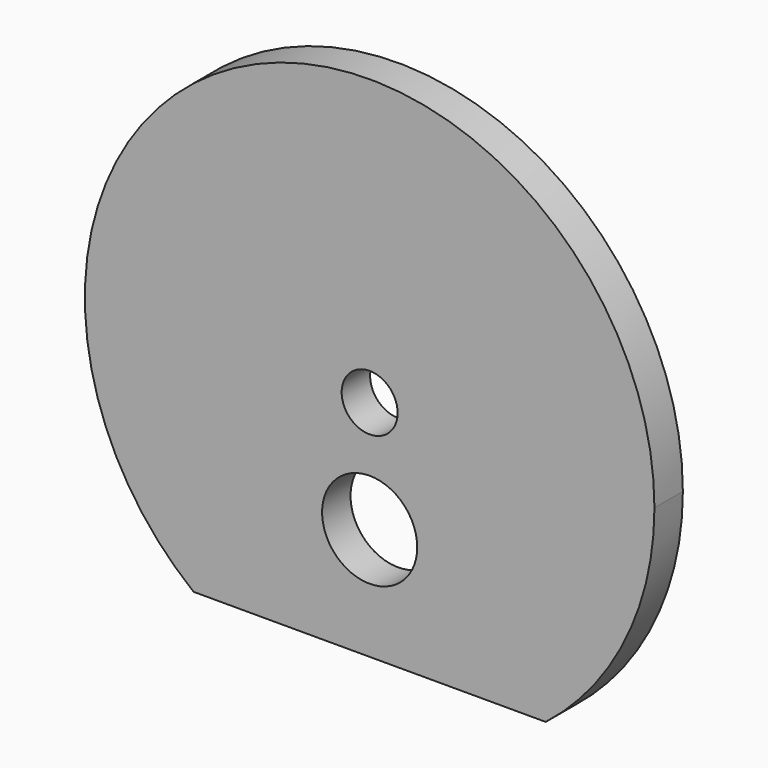
from build123d import *

# Parameters (mm, degrees)
F0_R     = 8.5
F0_R_2   = 5
F1_DEPTH = 6.35


with BuildPart() as f1:
    # F0 (on Front) → F1 (new body)
    with BuildSketch(Plane.XZ):
        with BuildLine():
            Line((-31.4690486828, -40), (0, -40))
            Line((0, -40), (31.4690486828, -40))
            ThreePointArc((31.4690486828, -40), (45.7816462008, -22.233800758), (50.895, 0))
            ThreePointArc((50.895, 0), (-22.233800758, 45.7816462008), (-31.4690486828, -40))
        make_face()
        with BuildLine():
            ThreePointArc((0, -40), (-28.2842712475, 28.2842712475), (40, 0))
            ThreePointArc((40, 0), (28.2842712475, -28.2842712475), (0, -40))
        make_face(mode=Mode.SUBTRACT)
        with BuildLine():
            ThreePointArc((0, -40), (28.2842712475, -28.2842712475), (40, 0))
            ThreePointArc((40, 0), (-28.2842712475, 28.2842712475), (0, -40))
        make_face()
        with Locations((0, -20)):
            Circle(F0_R, mode=Mode.SUBTRACT)
        Circle(F0_R_2, mode=Mode.SUBTRACT)
    extrude(amount=F1_DEPTH)


solid = f1.part
